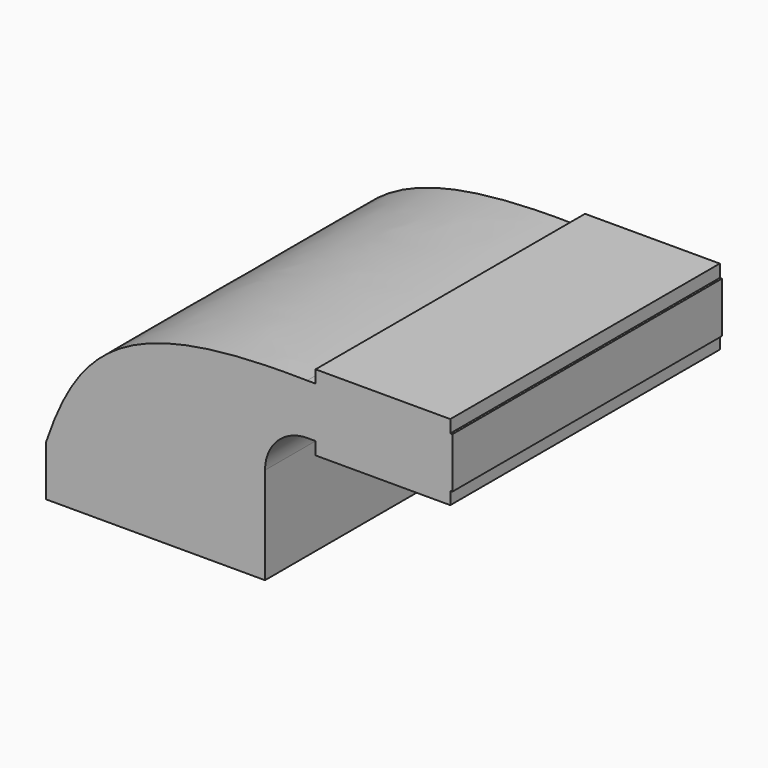
from build123d import *

# Parameters (mm, degrees)
F0_W     = 50.8
F0_H     = 4.7752
F0_H_2   = 4.7498
F0_W_2   = 0.8166841354
F0_H_3   = 19.05
F0_W_3   = 82.55
F1_DEPTH = 127


with BuildPart() as f1:
    # F0 (on Front) → F1 (new body)
    with BuildSketch(Plane.XZ):
        with Locations((85.725, 40.4876)):
            Rectangle(F0_W, F0_H)
        with Locations((85.725, 64.3001)):
            Rectangle(F0_W, F0_H_2)
        with Locations((111.5333420677, 52.4002)):
            Rectangle(F0_W_2, F0_H_3)
        with BuildLine():
            add(Edge.make_bspline(
                [(-41.275, 9.525), (-28.754702283, 46.6331869148), (-10.0444221635, 63.1745123066), (57.15, 61.9252)],
                knots=[0, 0, 0, 0, 111.5045361635, 111.5045361635, 111.5045361635, 111.5045361635], degree=3))
            Line((-41.275, 9.525), (41.275, 9.525))
            Line((41.275, 9.525), (41.275, 27.0002))
            ThreePointArc((41.275, 27.0002), (45.9246798487, 38.2255201513), (57.15, 42.8752))
            Line((57.15, 42.8752), (60.325, 42.8752))
            Line((60.325, 42.8752), (60.325, 61.9252))
            Line((60.325, 61.9252), (57.15, 61.9252))
        make_face()
        with Locations((85.725, 52.4002)):
            Rectangle(F0_W, F0_H_3)
        Rectangle(F0_W_3, F0_H_3)
    extrude(amount=F1_DEPTH)


solid = f1.part
